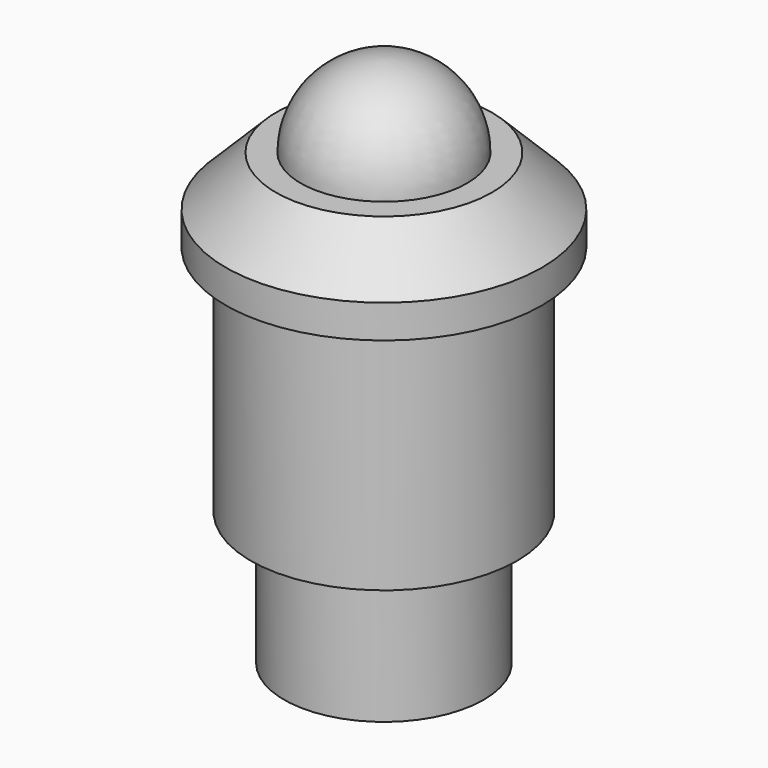
from build123d import *


with BuildPart() as f1:
    # F0 (on Front) → F1 (revolve)
    with BuildSketch(Plane.XZ):
        with BuildLine():
            Line((3.25, 2.5), (2.5, 2.5))
            ThreePointArc((2.5, 2.5), (1.767767, 4.267767), (0, 5))
            Line((0, 5), (0, -7))
            Line((0, -7), (0, -11))
            Line((0, -11), (3, -11))
            Line((3, -11), (3, -7))
            Line((3, -7), (4, -7))
            Line((4, -7), (4, 0))
            Line((4, 0), (4.75, 0))
            Line((4.75, 0), (4.75, 1))
            Line((4.75, 1), (3.25, 2.5))
        make_face()
    revolve(axis=Axis((0, 0, -3.678168), (0, 0, -1)))


solid = f1.part
